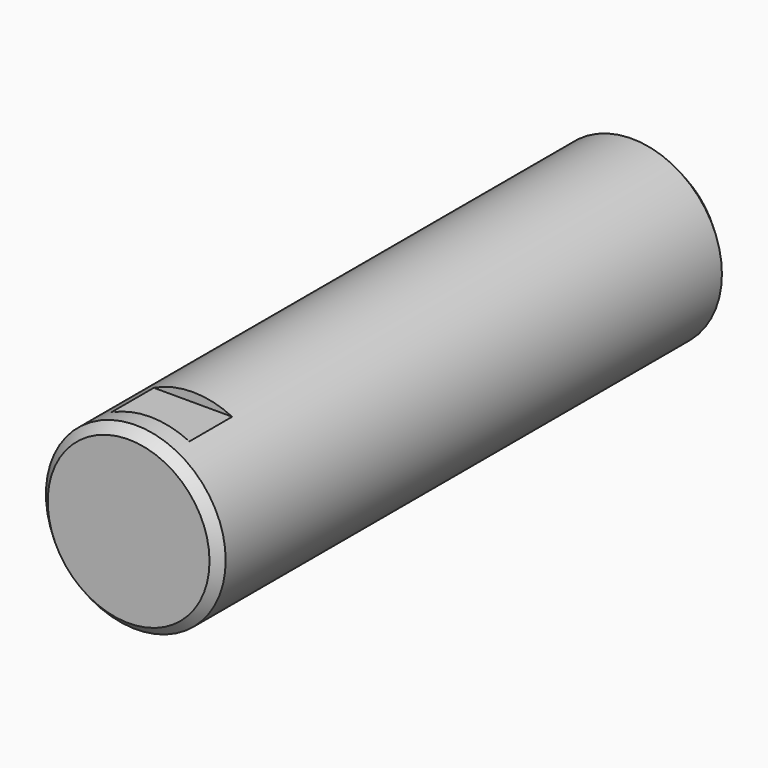
from build123d import *

# Parameters (mm, degrees)
F0_R          = 15.875
F1_DEPTH      = 101.6
F1_DEPTH_BACK = 12.7
F2_SIZE       = 1.5875
F3_SIZE       = 3.175
F5_START      = -4.7625
F5_DEPTH      = 9.4488


with BuildPart() as f1:
    # F0 (on Front) → F1 (new body, two sides)
    with BuildSketch(Plane.XZ) as f1_sk:
        Circle(F0_R)
    extrude(amount=F1_DEPTH)
    extrude(f1_sk.sketch, amount=-F1_DEPTH_BACK)

    # F2
    f2_edges = [f1.edges().sort_by_distance(p)[0] for p in [
        (-15.875, -101.6, 0),
    ]]
    chamfer(f2_edges, length=F2_SIZE)

    # F3
    f3_edges = [f1.edges().sort_by_distance(p)[0] for p in [
        (-15.875, 12.7, 0),
    ]]
    chamfer(f3_edges, length=F3_SIZE)

    # F4 (on face) → F5 (cut)
    with BuildSketch(Plane.XZ.offset(101.6).offset(F5_START)):
        with BuildLine():
            Line((0, 14.2875), (6.9197520729, 14.2875))
            ThreePointArc((6.9197520729, 14.2875), (0, 15.875), (-6.9197520729, 14.2875))
            Line((-6.9197520729, 14.2875), (0, 14.2875))
        make_face()
    extrude(amount=-F5_DEPTH, mode=Mode.SUBTRACT)


solid = f1.part
